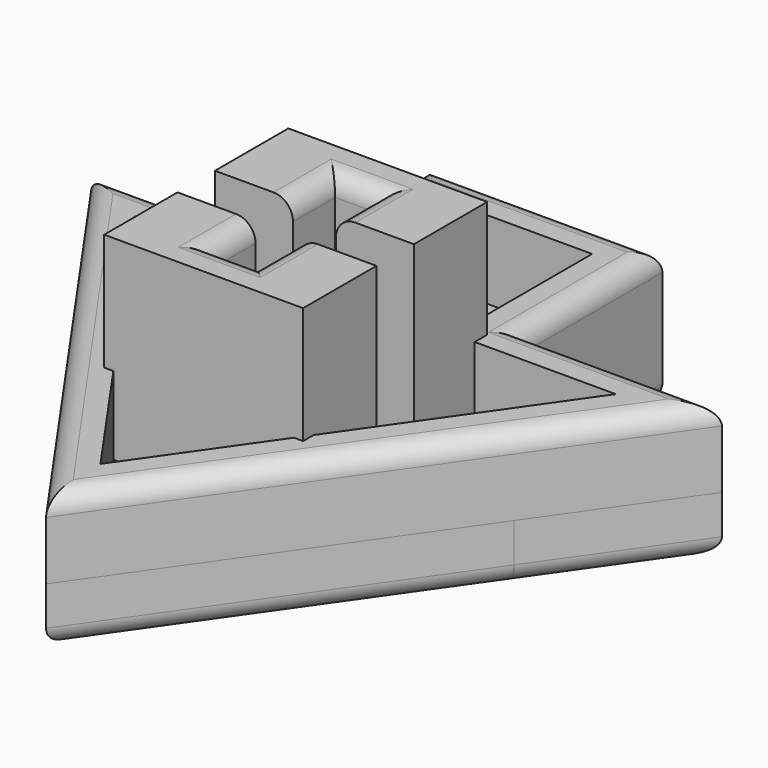
from build123d import *

# Parameters (mm, degrees)
F1_DEPTH = 5
F3_DEPTH = 1.5
F5_DEPTH = 2
F6_R     = 0.5
F7_R     = 0.5
F8_R     = 0.5


with BuildPart() as f1:
    # F0 (on Top) → F1 (new body)
    with BuildSketch(Plane.XY):
        Polygon((-0.55, 0.6), (-0.55, 1.9502386091), (0.55, 1.9502386091), (0.55, 0.6), (2.0002388261, 0.6), (2.55, 0.6), (2.55, 2.9502386091), (0, 2.9502386091), (-2.55, 2.9502386091), (-2.55, 0.6), (-2.0002388261, 0.6), align=None)
    extrude(amount=-F1_DEPTH)



with BuildPart() as f1b:
    # F0 (on Top) → F1, piece 2 (new body)
    with BuildSketch(Plane.XY):
        Polygon((-0.55, -0.6), (-2.0002388261, -0.6), (-2.55, -0.6), (-2.55, -2.9502386091), (0, -2.9502386091), (2.55, -2.9502386091), (2.55, -0.6), (2.0002388261, -0.6), (0.55, -0.6), (0.55, -1.9502386091), (-0.55, -1.9502386091), align=None)
    extrude(amount=-F1_DEPTH)


with BuildPart() as f1_1:
    add(f1.part)

    add(f1b.part)  # F3 merges F1b
    # F2 (on face) → F3 (join)
    with BuildSketch(Plane(origin=(0, 0, -5), x_dir=(1, 0, 0), z_dir=(0, 0, -1))):
        Polygon((0, 1.9502386091), (0, 0), (0, -8), (3, -8), (3, -3.55), (8.0873970663, -3.55), (5.6016603057, 0), (0, 8), (0, 2.9502386091), (2.55, 2.9502386091), (2.55, 0.6), (0.55, 0.6), (0.55, 1.9502386091), align=None)
        Polygon((0, -8), (0, 0), (0, 1.9502386091), (-0.55, 1.9502386091), (-0.55, 0.6), (-2.55, 0.6), (-2.55, 2.9502386091), (0, 2.9502386091), (0, 8), (-5.6016603057, 0), (-8.0873970663, -3.55), (-3, -3.55), (-3, -8), align=None)
        Polygon((-0.55, 1.9502386091), (0, 1.9502386091), (0, 2.9502386091), (-2.55, 2.9502386091), (-2.55, 0.6), (-0.55, 0.6), align=None)
        Polygon((0, 2.9502386091), (0, 1.9502386091), (0.55, 1.9502386091), (0.55, 0.6), (2.55, 0.6), (2.55, 2.9502386091), align=None)
    extrude(amount=F3_DEPTH)

    # F4 (on face) → F5 (join)
    with BuildSketch(Plane.XY.offset(-5)):
        Polygon((3, 8), (-3, 8), (-3, 3.55), (-8.0873970663, 3.55), (0, -8), (8.0873970663, 3.55), (3, 3.55), align=None)
        Polygon((2.3151064033, -2.9502386091), (0, -6.2565532044), (-2.3151064033, -2.9502386091), (-2.55, -2.9502386091), (-2.55, -2.6147757872), (-6.1664149394, 2.55), (-3, 2.55), (-2.55, 2.55), (-2.55, 2.9502386091), (-2, 2.9502386091), (-2, 3.55), (-2, 7), (2, 7), (2, 3.55), (2, 2.9502386091), (2.55, 2.9502386091), (2.55, 2.55), (3, 2.55), (6.1664149394, 2.55), (2.55, -2.6147757872), (2.55, -2.9502386091), align=None, mode=Mode.SUBTRACT)
    extrude(amount=F5_DEPTH)

    # F6
    f6_edges = [f1_1.edges().sort_by_distance(p)[0] for p in [
        (5.543699, 3.55, -6.5),
        (3, 5.775, -6.5),
        (0, 8, -6.5),
        (-3, 5.775, -6.5),
        (-5.543699, 3.55, -6.5),
        (-4.043699, -2.225, -6.5),
        (4.043699, -2.225, -6.5),
    ]]
    fillet(f6_edges, radius=F6_R)

    # F7
    f7_edges = [f1_1.edges().sort_by_distance(p)[0] for p in [
        (4.043699, -2.225, -3),
        (-4.043699, -2.225, -3),
        (-5.543699, 3.55, -3),
        (-3, 5.775, -3),
        (0, 8, -3),
        (3, 5.775, -3),
        (5.543699, 3.55, -3),
    ]]
    fillet(f7_edges, radius=F7_R)

    # F8
    f8_edges = [f1_1.edges().sort_by_distance(p)[0] for p in [
        (-0.55, 1.275119, 0),
        (0, 1.950239, 0),
        (0.55, 1.275119, 0),
        (-0.55, -1.275119, 0),
        (0, -1.950239, 0),
        (0.55, -1.275119, 0),
    ]]
    fillet(f8_edges, radius=F8_R)


solid = f1_1.part
